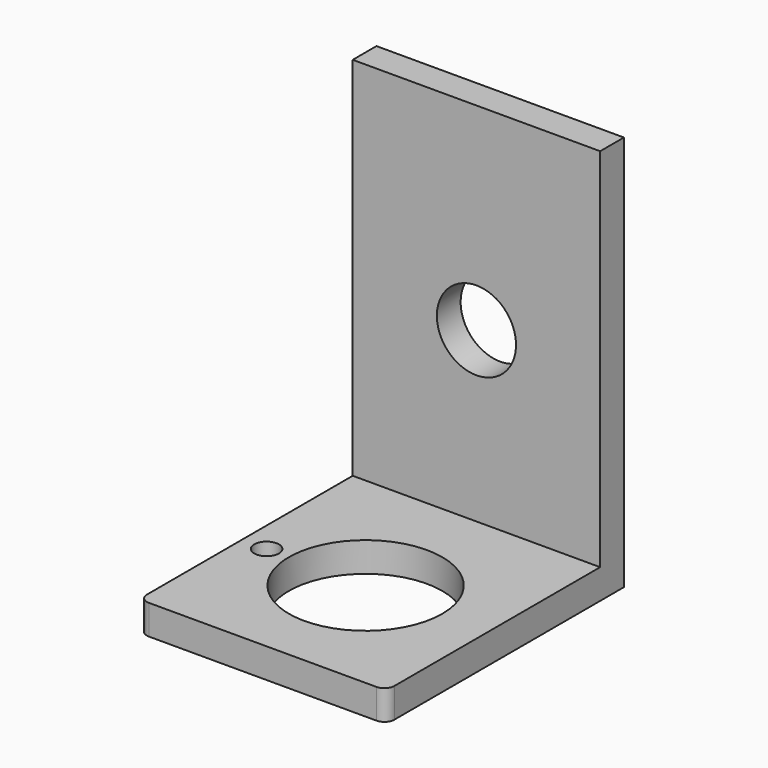
from build123d import *

# Parameters (mm, degrees)
F0_W     = 25
F0_H     = 27
F0_R     = 1.25
F0_R_2   = 7.75
F1_DEPTH = 3
F0_H_2   = 3
F2_DEPTH = 40
F3_R     = 4
F4_DEPTH = 25
F5_R     = 1


with BuildPart() as f1:
    # F0 (on Top) → F1 (new body)
    with BuildSketch(Plane.XY):
        with Locations((0, -1.5)):
            Rectangle(F0_W, F0_H)
        with Locations((-10, -2)):
            Circle(F0_R, mode=Mode.SUBTRACT)
        with Locations((0, -2)):
            Circle(F0_R_2, mode=Mode.SUBTRACT)
    extrude(amount=F1_DEPTH)

    # F0 (on Top) → F2 (join)
    with BuildSketch(Plane.XY):
        with Locations((0, 13.5)):
            Rectangle(F0_W, F0_H_2)
    extrude(amount=F2_DEPTH)

    # F3 (on face) → F4 (cut)
    with BuildSketch(Plane(origin=(0, 15, 0), x_dir=(-1, 0, 0), z_dir=(0, 1, 0))):
        with Locations((0, 20)):
            Circle(F3_R)
    extrude(amount=-F4_DEPTH, mode=Mode.SUBTRACT)

    # F5
    f5_edges = [f1.edges().sort_by_distance(p)[0] for p in [
        (12.5, -15, 1.5),
        (-12.5, -15, 1.5),
    ]]
    fillet(f5_edges, radius=F5_R)


solid = f1.part
